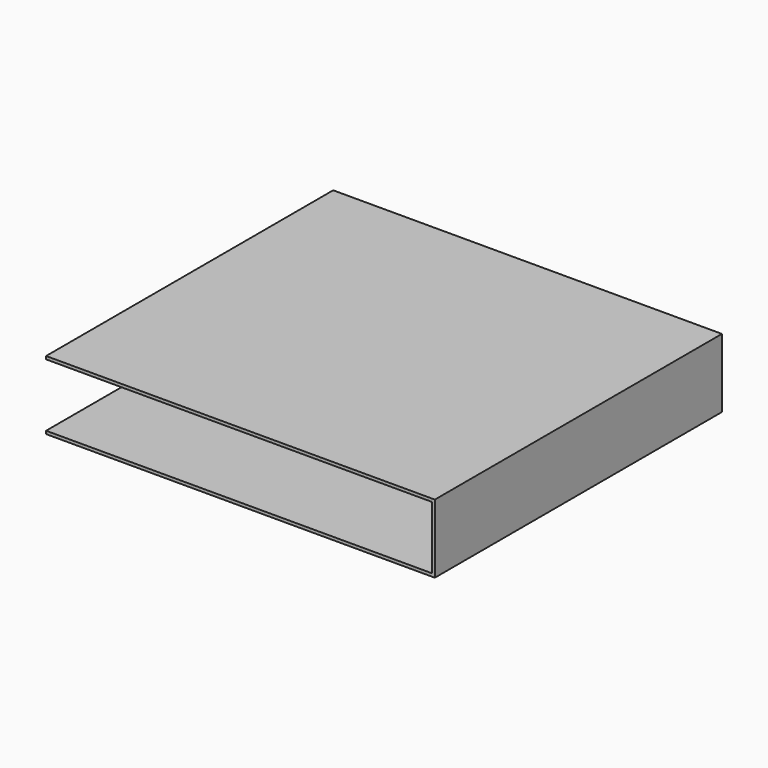
from build123d import *

# Parameters (mm, degrees)
BOX058_W               = 6
BOX058_H               = 6.45
BOX058_DEPTH           = 1.05
BOX057_W               = 6
BOX057_H               = 6.5
BOX057_DEPTH           = 1.15
CUT009_PLACEMENT_ANGLE = 270


with BuildPart() as small_cu_gnd_electrode014:
    # Box058 → Box058 (new body)
    with BuildSketch(Plane.XY.offset(0.05)):
        with Locations((3, 3.225)):
            Rectangle(BOX058_W, BOX058_H)
    extrude(amount=BOX058_DEPTH)


with BuildPart() as small_cu_electrode002_short_axis_gnd:
    # Box057 → Box057 (new body)
    with BuildSketch(Plane.XY):
        with Locations((3, 3.25)):
            Rectangle(BOX057_W, BOX057_H)
    extrude(amount=BOX057_DEPTH)

    # Cut009: cut Small Cu GND Electrode014
    add(small_cu_gnd_electrode014.part, mode=Mode.SUBTRACT)


with BuildPart() as small_cu_electrode002_short_axis_gnd_1:
    # Cut009 placement: moved
    add(small_cu_electrode002_short_axis_gnd.part.moved(Location((-2.38, 3.62, 2.74))).rotate(Axis((-2.38, 3.62, 2.74), (0, 0, 1)), CUT009_PLACEMENT_ANGLE))


solid = small_cu_electrode002_short_axis_gnd_1.part
